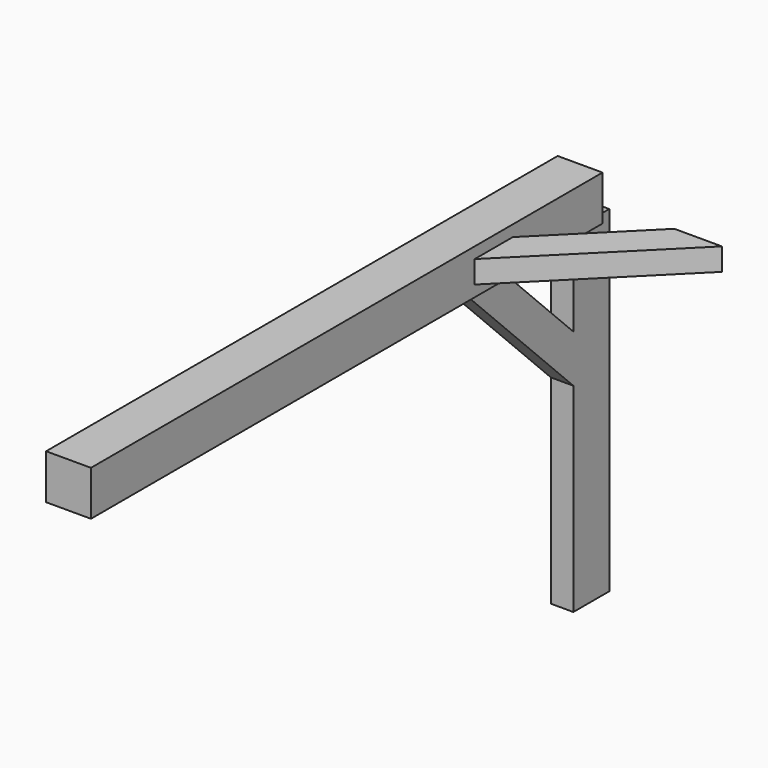
from build123d import *

# Parameters (mm, degrees)
F1_DEPTH  = 200
F3_DEPTH  = 50
F5_DEPTH  = 50
F8_DEPTH  = 100
F9_W      = 100
F9_H      = 887.867965644
F9_H_2    = 212.132034356
F9_H_3    = 400
F10_DEPTH = 200


with BuildPart() as f1:
    # F0 (on Top) → F1 (new body)
    with BuildSketch(Plane.XY):
        Polygon((-358.8735613318, 1246.5066106532), (-358.8735613318, -1603.4933893468), (-158.8735613318, -1603.4933893468), (-158.8735613318, 534.3745762972), (453.2584730242, 1146.5066106532), (241.1264386682, 1146.5066106532), (-158.8735613318, 746.5066106532), (-158.8735613318, 1246.5066106532), align=None)
    extrude(amount=F1_DEPTH)

    # F2 (on face) → F3 (cut)
    with BuildSketch(Plane(origin=(0, 0, 0), x_dir=(1, 0, 0), z_dir=(0, 0, -1))):
        Polygon((453.2584730242, -1146.5066106532), (-158.8735613318, -534.3745762972), (-158.8735613318, -746.5066106532), (241.1264386682, -1146.5066106532), align=None)
    extrude(amount=-F3_DEPTH, mode=Mode.SUBTRACT)

    # F4 (on face) → F5 (cut)
    with BuildSketch(Plane.XY.offset(200)):
        Polygon((241.1264386682, 1146.5066106532), (-158.8735613318, 746.5066106532), (-158.8735613318, 534.3745762972), (453.2584730242, 1146.5066106532), align=None)
    extrude(amount=-F5_DEPTH, mode=Mode.SUBTRACT)

    # F7 (on offset) → F8 (join)
    with BuildSketch(Plane(origin=(-308.8735613318, 0, 0), x_dir=(0, -1, 0), z_dir=(-1, 0, 0))):
        Polygon((-534.3745762972, 0), (-746.5066106532, 0), (-1146.5066106532, -400), (-1146.5066106532, -612.132034356), align=None)
    extrude(amount=-F8_DEPTH)

    # F9 (on face) → F10 (join)
    with BuildSketch(Plane(origin=(0, 1146.5066106532, 0), x_dir=(-1, 0, 0), z_dir=(0, 1, 0))):
        with Locations((258.8735613318, -1056.066017178)):
            Rectangle(F9_W, F9_H)
        with Locations((258.8735613318, -506.066017178)):
            Rectangle(F9_W, F9_H_2)
        with Locations((258.8735613318, -200)):
            Rectangle(F9_W, F9_H_3)
    extrude(amount=F10_DEPTH)


solid = f1.part
